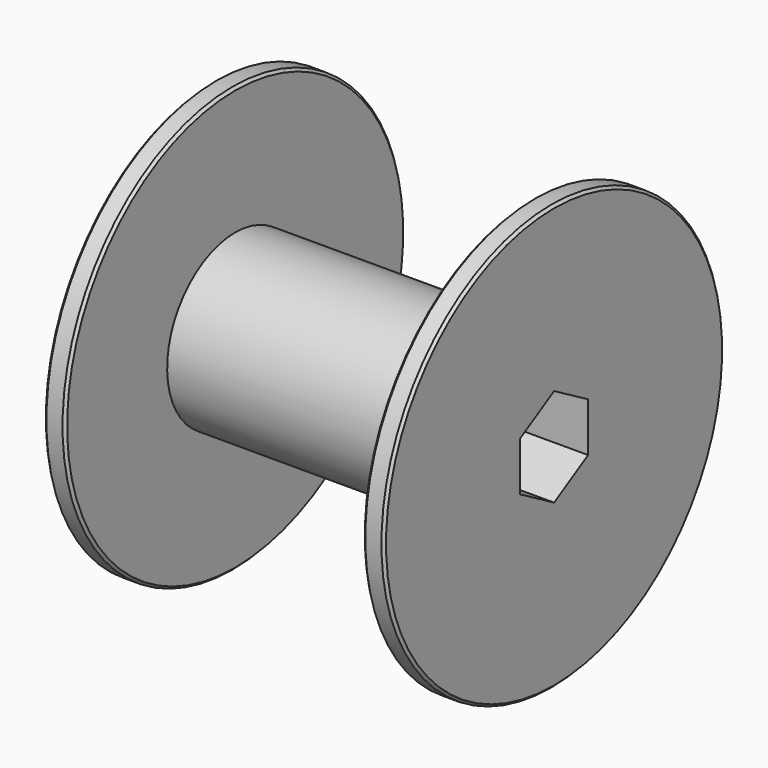
from build123d import *

# Parameters (mm, degrees)
F2_SIZE  = 0.381
F4_DEPTH = 25.019
F5_R     = 6.875
F6_DEPTH = 25.781


with BuildPart() as f1:
    # F0 (on Front) → F1 (revolve)
    with BuildSketch(Plane.XZ):
        Polygon((22.225, 12.7), (-22.225, 12.7), (-22.225, 31.75), (-25.4, 31.75), (-25.4, 0), (25.4, 0), (25.4, 31.75), (22.225, 31.75), align=None)
    revolve(axis=Axis((0, 0, 0), (1, 0, 0)))

    # F2
    f2_edges = [f1.edges().sort_by_distance(p)[0] for p in [
        (-22.225, 0, -31.75),
        (-25.4, 0, -31.75),
        (22.225, 0, -31.75),
        (25.4, 0, -31.75),
    ]]
    chamfer(f2_edges, length=F2_SIZE)

    # F3 (on face) → F4 (cut)
    with BuildSketch(Plane.YZ.offset(25.4)):
        Polygon((6.35, -3.666174), (6.35, 3.666174), (0, 7.332348), (-6.35, 3.666174), (-6.35, -3.666174), (0, -7.332348), align=None)
    extrude(amount=-F4_DEPTH, mode=Mode.SUBTRACT)

    # F5 (on face) → F6 (cut)
    with BuildSketch(Plane(origin=(-25.4, 0, 0), x_dir=(0, -1, 0), z_dir=(-1, 0, 0))):
        Circle(F5_R)
    extrude(amount=-F6_DEPTH, mode=Mode.SUBTRACT)


solid = f1.part
